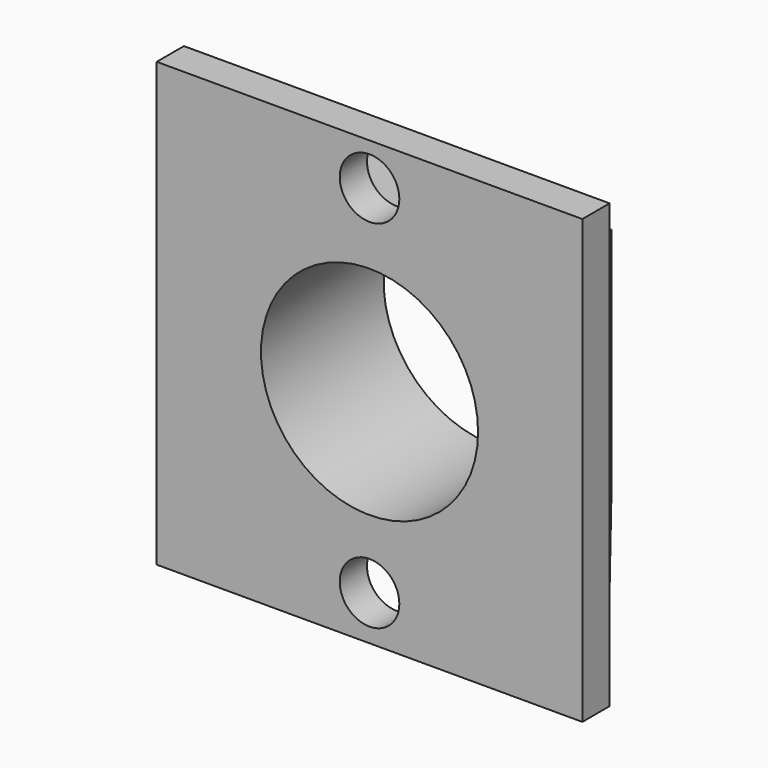
from build123d import *

# Parameters (mm, degrees)
F1_DEPTH = 14
F3_W     = 25
F3_H     = 2
F4_DEPTH = 6
F5_W     = 25
F5_H     = 2
F6_DEPTH = 6
F8_D     = 3.5
F10_D    = 3.5
F11_D    = 12.75


with BuildPart() as f1:
    # F0 (on Top) → F1 (new body)
    with BuildSketch(Plane.XY):
        Polygon((12.5, 0), (0, 0), (-12.5, 0), (-12.5, -2), (12.5, -2), align=None)
        Polygon((-12.5, 0), (0, 0), (12.5, 0), (7, 7), (0, 7), (-7, 7), align=None)
        Polygon((-12.5, 0), (0, 0), (12.5, 0), (7, 7), (0, 7), (-7, 7), align=None)
    extrude(amount=F1_DEPTH)

    # F3 (on face) → F4 (join)
    with BuildSketch(Plane(origin=(0, 0, 0), x_dir=(1, 0, 0), z_dir=(0, 0, -1))):
        with Locations((0, 1)):
            Rectangle(F3_W, F3_H)
    extrude(amount=F4_DEPTH)

    # F5 (on face) → F6 (join)
    with BuildSketch(Plane.XY.offset(14)):
        with Locations((0, -1)):
            Rectangle(F5_W, F5_H)
    extrude(amount=F6_DEPTH)

    # F8 (through all)
    with Locations(Plane(origin=(0, 0, 0), x_dir=(-1, 0, 0), z_dir=(0, 1, 0))):
        with Locations((0, -3.387567)):
            Hole(F8_D / 2)

    # F10 (through all)
    with Locations(Plane(origin=(0, 0, 0), x_dir=(-1, 0, 0), z_dir=(0, 1, 0))):
        with Locations((0, 17.537134)):
            Hole(F10_D / 2)

    # F11 (through all)
    with Locations(Plane(origin=(0, 7, 0), x_dir=(-1, 0, 0), z_dir=(0, 1, 0))):
        with Locations((0, 7)):
            Hole(F11_D / 2)


solid = f1.part
